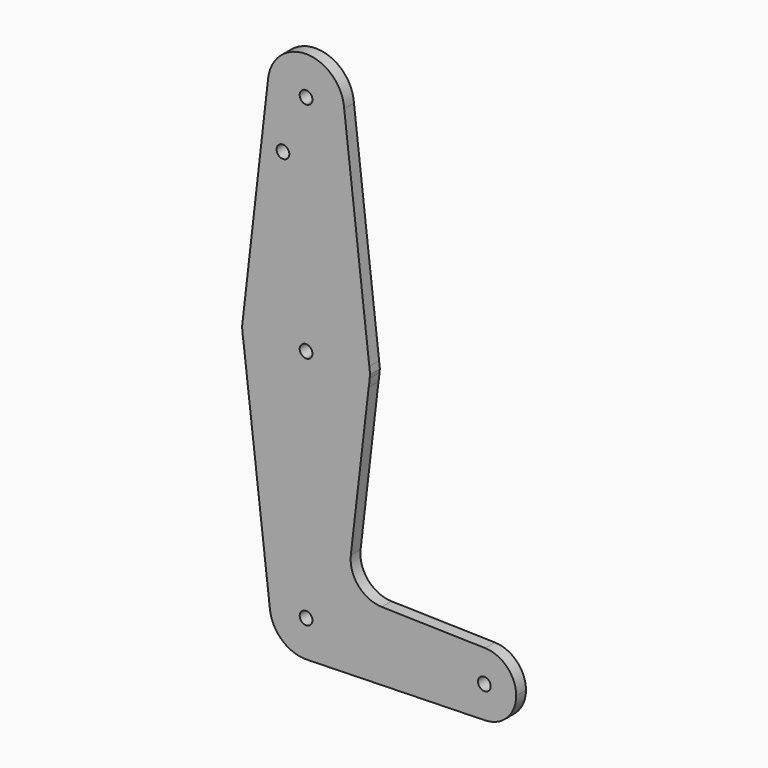
from build123d import *

# Parameters (mm, degrees)
F0_R     = 1.5875
F1_DEPTH = 3.048


with BuildPart() as f1:
    # F0 (on Front) → F1 (new body)
    with BuildSketch(Plane.XZ):
        with BuildLine():
            ThreePointArc((-67.8094022876, -0.9233095032), (-67.8205172303, 0.3752460004), (-67.725459736, 1.6703653041))
            Line((-67.725459736, 1.6703653041), (-67.9170112082, 0))
            Line((-67.9170112082, 0), (-67.8094022876, -0.9233095032))
        make_face()
        with BuildLine():
            Line((-67.564971831, -3.0205795261), (-67.8094022876, -0.9233095032))
            ThreePointArc((-67.8094022876, -0.9233095032), (-67.722094311, -1.9760128489), (-67.564971831, -3.0205795261))
        make_face()
        with BuildLine():
            ThreePointArc((-36.3417611399, -3.0156100395), (-36.1855661543, -1.9761054113), (-36.098507364, -0.928542758))
            Line((-36.098507364, -0.928542758), (-36.3417611399, -3.0156100395))
        make_face()
        with BuildLine():
            Line((-35.9902829986, 0), (-36.1825698065, 1.6736747348))
            ThreePointArc((-36.1825698065, 1.6736747348), (-36.1047823023, 0.7691867156), (-36.0788248386, -0.1382688937))
            ThreePointArc((-36.0788248386, -0.1382688937), (-36.0837462327, -0.5335283599), (-36.098507364, -0.928542758))
            Line((-36.098507364, -0.928542758), (-35.9902829986, 0))
        make_face()
        with BuildLine():
            ThreePointArc((-42.4288248386, 55.6051295638), (-45.2186327478, 48.869937473), (-51.9538248386, 46.0801295638))
            Line((-51.9538248386, 46.0801295638), (-51.9538248386, 15.7367311063))
            ThreePointArc((-51.9538248386, 15.7367311063), (-41.3885274008, 11.7103645739), (-36.1825698065, 1.6736747348))
            Line((-36.1825698065, 1.6736747348), (-42.4478727353, 56.2072089691))
            ThreePointArc((-42.4478727353, 56.2072089691), (-42.4335880037, 55.9063198826), (-42.4288248386, 55.6051295638))
        make_face()
        with BuildLine():
            Line((-51.9538248386, -49.6337251783), (-51.9538248386, -16.0132688937))
            ThreePointArc((-51.9538248386, -16.0132688937), (-62.1090930209, -12.3401602695), (-67.564971831, -3.0205795261))
            Line((-67.564971831, -3.0205795261), (-60.9540503602, -59.7438194078))
            ThreePointArc((-60.9540503602, -59.7438194078), (-58.7217282209, -52.6699358148), (-51.9538248386, -49.6337251783))
        make_face()
        with BuildLine():
            Line((-15.4413248386, -58.6948704362), (-42.8926795806, -58.6948704362))
            ThreePointArc((-42.8926795806, -58.6948704362), (-45.3798082727, -64.9307873357), (-51.4758461607, -67.7434001382))
            Line((-51.4758461607, -67.7434001382), (-7.3036883214, -66.6298469097))
            ThreePointArc((-7.3036883214, -66.629846909), (-13.0452742268, -64.3778489622), (-15.4413248386, -58.6948704362))
        make_face()
        with BuildLine():
            ThreePointArc((-61.430303389, 56.565327087), (-59.0203482556, 49.2184346599), (-51.9538248386, 46.0801295638))
            ThreePointArc((-51.9538248386, 46.0801295638), (-45.2186327478, 48.869937473), (-42.4288248386, 55.6051295638))
            ThreePointArc((-42.4288248386, 55.6051295638), (-42.4335880037, 55.9063198826), (-42.4478727353, 56.2072089691))
            ThreePointArc((-42.4478727353, 56.2072089691), (-51.7741603758, 65.1284349606), (-61.430303389, 56.565327087))
        make_face()
        with BuildLine():
            ThreePointArc((-50.3663248386, 55.6051295638), (-50.8312928234, 54.4825975487), (-51.9538248386, 54.0176295638))
            ThreePointArc((-51.9538248386, 54.0176295638), (-53.0763568537, 56.7276615789), (-50.3663248386, 55.6051295638))
        make_face(mode=Mode.SUBTRACT)
        with BuildLine():
            ThreePointArc((-7.3036883214, -50.7598939634), (-13.0452742268, -53.0118919101), (-15.4413248386, -58.6948704362))
            ThreePointArc((-15.4413248386, -58.6948704362), (-13.0452742268, -64.3778489622), (-7.3036883214, -66.629846909))
            ThreePointArc((-7.3036883214, -66.629846909), (-1.8208463125, -64.2363198244), (0.4336751614, -58.6948704362))
            ThreePointArc((0.4336751614, -58.6948704362), (-1.8208463125, -53.1534210479), (-7.3036883214, -50.7598939634))
        make_face()
        with BuildLine():
            ThreePointArc((-5.9163248386, -58.6948704362), (-7.5038248386, -60.2823704362), (-9.0913248386, -58.6948704362))
            ThreePointArc((-9.0913248386, -58.6948704362), (-7.5038248386, -57.1073704362), (-5.9163248386, -58.6948704362))
        make_face(mode=Mode.SUBTRACT)
        with BuildLine():
            Line((-51.9538248386, 15.7367311063), (-51.9538248386, 46.0801295638))
            ThreePointArc((-51.9538248386, 46.0801295638), (-59.0203482556, 49.2184346599), (-61.430303389, 56.565327087))
            Line((-61.430303389, 56.565327087), (-67.725459736, 1.6703653041))
            ThreePointArc((-67.725459736, 1.6703653041), (-62.5203653583, 11.7092560143), (-51.9538248386, 15.7367311063))
        make_face()
        with Locations((-57.7193908393, 41.7764373124)):
            Circle(F0_R, mode=Mode.SUBTRACT)
        with BuildLine():
            Line((-51.9538248386, -57.1073704362), (-51.9538248386, -49.6337251783))
            ThreePointArc((-51.9538248386, -49.6337251783), (-58.7217282209, -52.6699358148), (-60.9540503602, -59.7438194078))
            ThreePointArc((-60.9540503602, -59.7438194078), (-57.7980951764, -65.6193817982), (-51.4758461607, -67.7434001382))
            ThreePointArc((-51.4758461607, -67.7434001382), (-45.3798082727, -64.9307873357), (-42.8926795806, -58.6948704362))
            Line((-42.8926795806, -58.6948704362), (-50.3663248386, -58.6948704362))
            ThreePointArc((-50.3663248386, -58.6948704362), (-53.0763568537, -59.8174024513), (-51.9538248386, -57.1073704362))
        make_face()
        with BuildLine():
            ThreePointArc((-36.3417611399, -3.0156100395), (-41.7966147317, -12.3385438023), (-51.9538248386, -16.0132688937))
            Line((-51.9538248386, -16.0132688937), (-51.9538248386, -49.6337251783))
            ThreePointArc((-51.9538248386, -49.6337251783), (-45.5466275814, -52.287673179), (-42.8926795806, -58.6948704362))
            Line((-42.8926795806, -58.6948704362), (-15.4413248386, -58.6948704362))
            ThreePointArc((-15.4413248386, -58.6948704362), (-13.0452742268, -53.0118919101), (-7.3036883214, -50.7598939634))
            Line((-7.3036883214, -50.7598939634), (-33.1007752051, -50.1092380805))
            ThreePointArc((-33.1007752051, -50.1092380805), (-38.9046328387, -47.3725050037), (-40.7970624186, -41.2411771173))
            Line((-40.7970624186, -41.2411771173), (-36.3417611399, -3.0156100395))
        make_face()
        with BuildLine():
            ThreePointArc((-36.1825698065, 1.6736747348), (-41.3885274008, 11.7103645739), (-51.9538248386, 15.7367311063))
            Line((-51.9538248386, 15.7367311063), (-51.9538248386, 1.4492311063))
            ThreePointArc((-51.9538248386, 1.4492311063), (-50.8312928234, 0.9842631214), (-50.3663248386, -0.1382688937))
            ThreePointArc((-50.3663248386, -0.1382688937), (-50.8312928234, -1.2608009089), (-51.9538248386, -1.7257688937))
            Line((-51.9538248386, -1.7257688937), (-51.9538248386, -16.0132688937))
            ThreePointArc((-51.9538248386, -16.0132688937), (-41.7966147317, -12.3385438023), (-36.3417611399, -3.0156100395))
            Line((-36.3417611399, -3.0156100395), (-36.098507364, -0.928542758))
            ThreePointArc((-36.098507364, -0.928542758), (-36.0837462327, -0.5335283599), (-36.0788248386, -0.1382688937))
            ThreePointArc((-36.0788248386, -0.1382688937), (-36.1047823023, 0.7691867156), (-36.1825698065, 1.6736747348))
        make_face()
        with BuildLine():
            Line((-51.9538248386, 1.4492311063), (-51.9538248386, 15.7367311063))
            ThreePointArc((-51.9538248386, 15.7367311063), (-62.5203653583, 11.7092560143), (-67.725459736, 1.6703653041))
            ThreePointArc((-67.725459736, 1.6703653041), (-67.8205172303, 0.3752460004), (-67.8094022876, -0.9233095032))
            Line((-67.8094022876, -0.9233095032), (-67.564971831, -3.0205795261))
            ThreePointArc((-67.564971831, -3.0205795261), (-62.1090930209, -12.3401602695), (-51.9538248386, -16.0132688937))
            Line((-51.9538248386, -16.0132688937), (-51.9538248386, -1.7257688937))
            ThreePointArc((-51.9538248386, -1.7257688937), (-53.5413248386, -0.1382688937), (-51.9538248386, 1.4492311063))
        make_face()
        with BuildLine():
            ThreePointArc((-42.8926795806, -58.6948704362), (-45.5466275814, -52.287673179), (-51.9538248386, -49.6337251783))
            Line((-51.9538248386, -49.6337251783), (-51.9538248386, -57.1073704362))
            ThreePointArc((-51.9538248386, -57.1073704362), (-50.8312928234, -57.5723384211), (-50.3663248386, -58.6948704362))
            Line((-50.3663248386, -58.6948704362), (-42.8926795806, -58.6948704362))
        make_face()
    extrude(amount=-F1_DEPTH)


solid = f1.part
